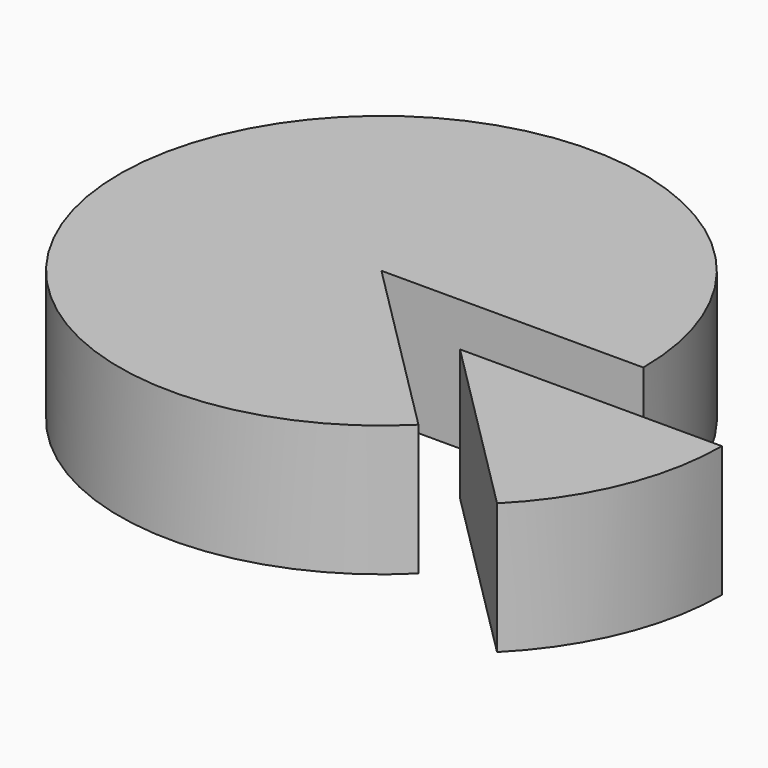
from build123d import *

# Parameters (mm, degrees)
CYLINDER_W                  = 40
CYLINDER_H                  = 20
CYLINDER_ANGLE              = 315
CYLINDER001_W               = 40
CYLINDER001_H               = 20
CYLINDER001_ANGLE           = 45
CYLINDER001_PLACEMENT_ANGLE = 45


with BuildPart() as cilindro:
    # Cylinder → Cylinder (revolve)
    with BuildSketch(Plane.XZ):
        with Locations((20, 10)):
            Rectangle(CYLINDER_W, CYLINDER_H)
    revolve(axis=Axis((0, 0, 0), (0, 0, 1)), revolution_arc=CYLINDER_ANGLE)


with BuildPart() as fusion:
    # Cylinder001 → Cylinder001 (revolve)
    with BuildSketch(Plane.XZ):
        with Locations((20, 10)):
            Rectangle(CYLINDER001_W, CYLINDER001_H)
    revolve(axis=Axis((0, 0, 0), (0, 0, 1)), revolution_arc=CYLINDER001_ANGLE)


with BuildPart() as fusion_1:
    # Cylinder001 placement: moved
    add(fusion.part.moved(Location((20, -10, 0))).rotate(Axis((20, -10, 0), (0, 0, -1)), CYLINDER001_PLACEMENT_ANGLE))

    # Fusion: union Cilindro
    add(cilindro.part)


solid = fusion_1.part
